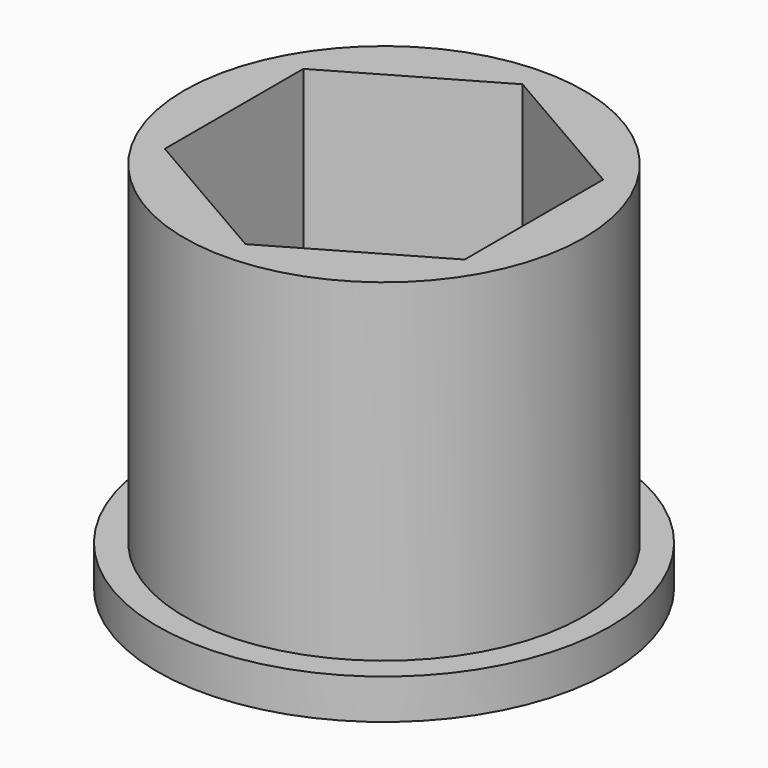
from build123d import *

# Parameters (mm, degrees)
SKETCH_R     = 17
PAD_DEPTH    = 3
SKETCH001_R  = 14.990381
PAD001_DEPTH = 25


with BuildPart() as part:
    # Sketch → Pad (new body)
    with BuildSketch(Plane.XY):
        Circle(SKETCH_R)
    extrude(amount=PAD_DEPTH)

    # Sketch001 (on Face3 of Pad) → Pad001 (join)
    with BuildSketch(Plane.XY.offset(3)):
        Circle(SKETCH001_R)
        Polygon((-11.25, 6.495191), (-11.25, -6.495191), (0, -12.990381), (11.25, -6.495191), (11.25, 6.495191), (0, 12.990381), align=None, mode=Mode.SUBTRACT)
    extrude(amount=PAD001_DEPTH)


solid = part.part
